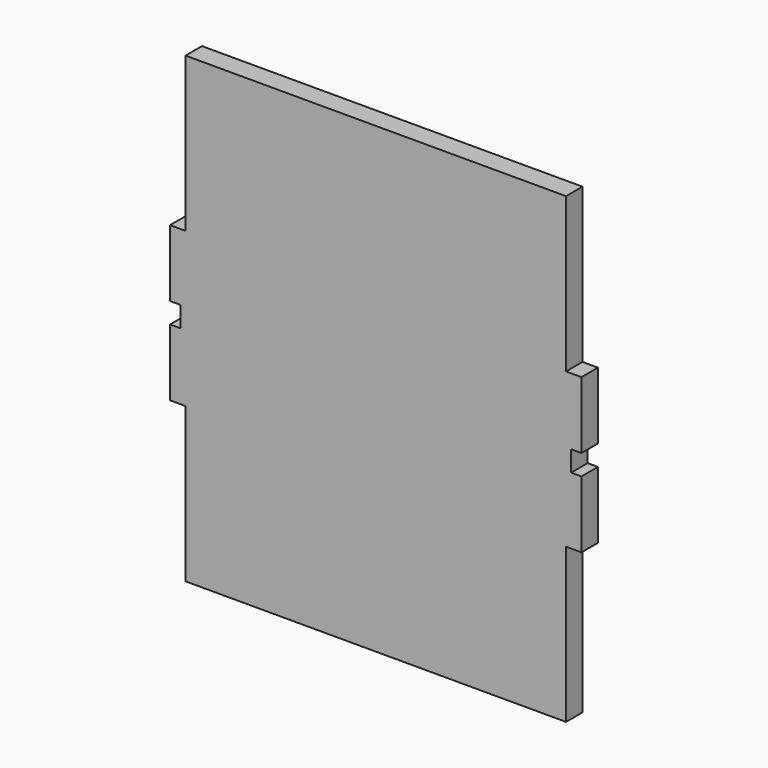
from build123d import *

# Parameters (mm, degrees)
F1_DEPTH = 4


with BuildPart() as f1:
    # F0 (on Front) → F1 (new body)
    with BuildSketch(Plane.XZ):
        Polygon((38, 2), (40, 2), (40, 15), (37, 15), (37, 45), (-37, 45), (-37, 15), (-40, 15), (-40, 2), (-38, 2), (-38, 0), (-38, -2), (-40, -2), (-40, -15), (-37, -15), (-37, -45), (37, -45), (37, -15), (40, -15), (40, -2), (38, -2), (38, 0), align=None)
    extrude(amount=F1_DEPTH)


solid = f1.part
